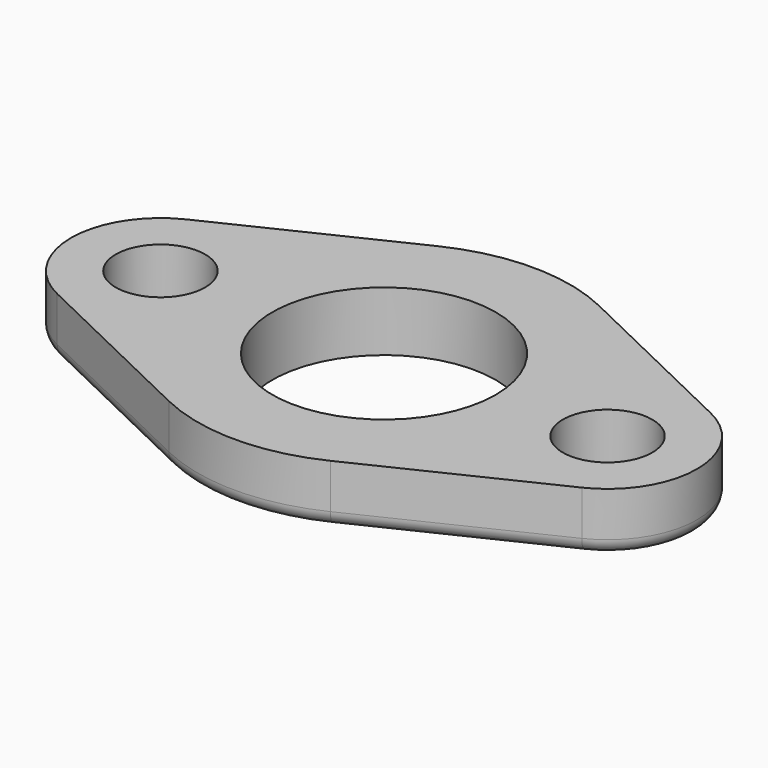
from build123d import *

# Parameters (mm, degrees)
SKETCH_R   = 30
SKETCH_R_2 = 12
PAD_DEPTH  = 16
FILLET_R   = 4


with BuildPart() as part:
    # Sketch → Pad (new body)
    with BuildSketch(Plane.XY):
        with BuildLine():
            Line((-70.4, 21.629609), (-21.666667, 45.061686))
            ThreePointArc((21.666667, 45.061686), (0, 50), (-21.666667, 45.061686))
            Line((21.666667, 45.061686), (70.4, 21.629609))
            ThreePointArc((70.4, -21.629609), (84, 0), (70.4, 21.629609))
            Line((70.4, -21.629609), (21.666667, -45.061686))
            ThreePointArc((-21.666667, -45.061686), (0, -50), (21.666667, -45.061686))
            Line((-21.666667, -45.061686), (-70.4, -21.629609))
            ThreePointArc((-70.4, 21.629609), (-84, 0), (-70.4, -21.629609))
        make_face()
        Circle(SKETCH_R, mode=Mode.SUBTRACT)
        with Locations((60, 0)):
            Circle(SKETCH_R_2, mode=Mode.SUBTRACT)
        with Locations((-60, 0)):
            Circle(SKETCH_R_2, mode=Mode.SUBTRACT)
    extrude(amount=PAD_DEPTH)

    # Fillet
    fillet_edges = [part.edges().sort_by_distance(p)[0] for p in [
        (-46.033333, 33.345648, 0),
    ]]
    fillet(fillet_edges, radius=FILLET_R)


solid = part.part
